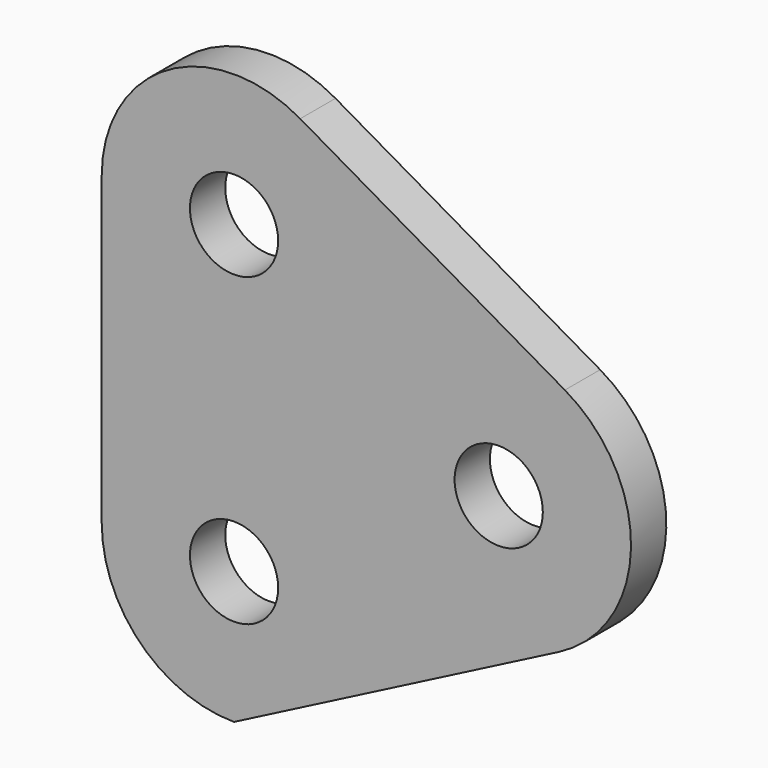
from build123d import *

# Parameters (mm, degrees)
F0_R     = 5
F1_DEPTH = 5


with BuildPart() as f1:
    # F0 (on Front) → F1 (new body)
    with BuildSketch(Plane.XZ):
        with BuildLine():
            ThreePointArc((26.86723, -13.33571), (34.995669, -0.360434), (27.5, 12.990381))
            Line((27.5, 12.990381), (-2.5, 30.310889))
            ThreePointArc((-2.5, 30.310889), (-17.5, 30.310889), (-25, 17.320508))
            Line((-25, 17.320508), (-25, -17.320508))
            ThreePointArc((-25, -17.320508), (-20.606602, -27.92711), (-10, -32.320508))
            Line((-10, -32.320508), (26.86723, -13.33571))
        make_face()
        with Locations((-10, -17.320508)):
            Circle(F0_R, mode=Mode.SUBTRACT)
        with Locations((-10, 17.320508)):
            Circle(F0_R, mode=Mode.SUBTRACT)
        with Locations((20, 0)):
            Circle(F0_R, mode=Mode.SUBTRACT)
    extrude(amount=F1_DEPTH)


solid = f1.part
